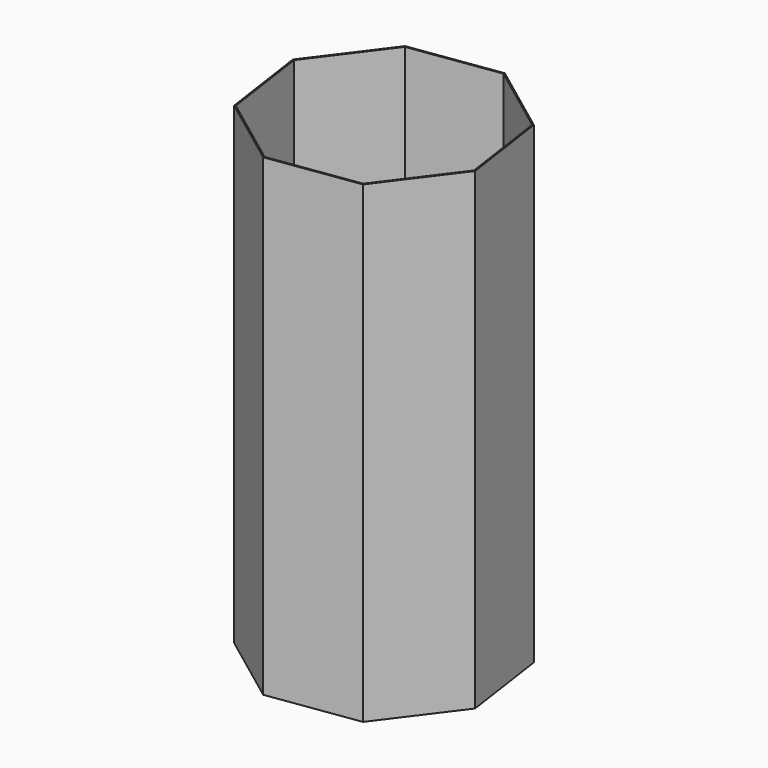
from build123d import *

# Parameters (mm, degrees)
F1_DEPTH = 150
F2_T     = -0.4


with BuildPart() as f1:
    # F0 (on Top) → F1 (new body)
    with BuildSketch(Plane.XY):
        Polygon((32.21311, 19.112574), (9.263478, 36.292739), (-19.112574, 32.21311), (-36.292739, 9.263478), (-32.21311, -19.112574), (-9.263478, -36.292739), (19.112574, -32.21311), (36.292739, -9.263478), align=None)
    extrude(amount=F1_DEPTH)

    # F2
    f2_openings = [f1.faces().sort_by_distance(p)[0] for p in [
        (0, 0, 150),
    ]]
    offset(amount=F2_T, openings=f2_openings)


with BuildPart() as f3_1:
    # F3: copy of F1
    add(f1.part)


solid = Compound([f1.part, f3_1.part])
